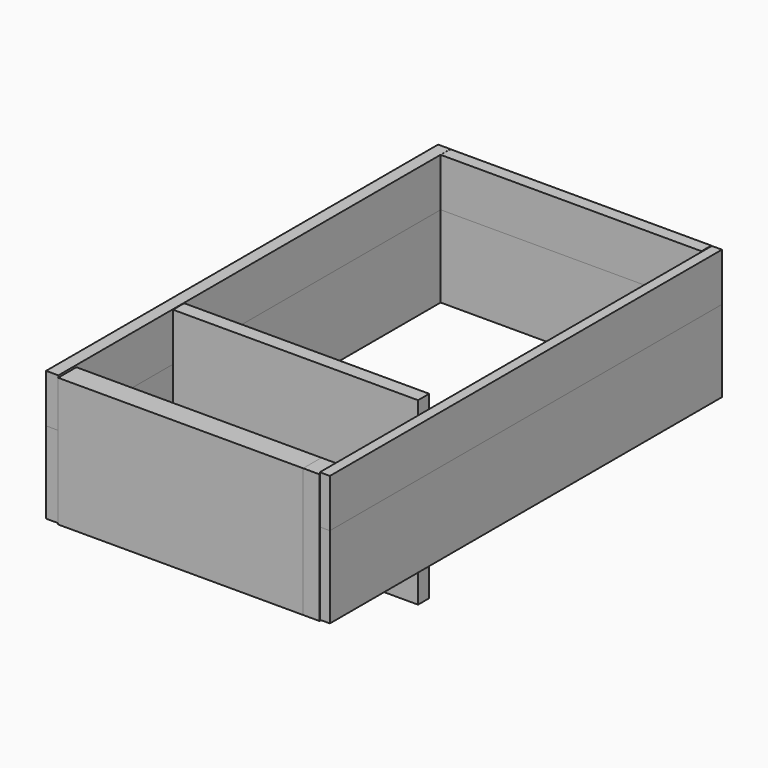
from build123d import *

# Parameters (mm, degrees)
F0_W      = 151.7477110028
F0_H      = 75.1876682043
F1_DEPTH  = 19.05
F2_W      = 19.1056653857
F2_H      = 71.5590007603
F3_DEPTH  = 762
F4_DEPTH  = 3.81
F5_DEPTH  = 254
F6_W      = 15.6524479389
F6_H      = 74.9500244856
F7_DEPTH  = 762
F8_DEPTH  = 127
F10_W     = 35.5035066605
F10_H     = 200.8482292295
F11_DEPTH = 381
F12_DEPTH = 25.4
F13_W     = 21.743118763
F13_H     = 279.9243927002
F14_DEPTH = 381
F15_DEPTH = 127


with BuildPart() as f1:
    # F0 (on Front) → F1 (new body)
    with BuildSketch(Plane.XZ):
        with Locations((-1.86265e-05, 37.5938341022)):
            Rectangle(F0_W, F0_H)
    extrude(amount=F1_DEPTH)

    # F2 (on Front) → F3 (join)
    with BuildSketch(Plane.XZ):
        with Locations((-85.3756554425, 39.5220350474)):
            Rectangle(F2_W, F2_H)
    extrude(amount=F3_DEPTH)

    # F4 (add): a face of the model
    f4_faces = [f1.faces().sort_by_distance(p)[0] for p in [
        (-85.3762919221, -381.0248166935, 3.7425346673),
    ]]
    extrude(f4_faces, amount=F4_DEPTH)

    # F5 (add): a face of the model
    f5_faces = [f1.faces().sort_by_distance(p)[0] for p in [
        (75.873836875, -9.525, 37.5938341022),
    ]]
    extrude(f5_faces, amount=F5_DEPTH)


with BuildPart() as f7:
    # F6 (on Front) → F7 (new body)
    with BuildSketch(Plane.XZ):
        with Locations((338.578119874, 37.4750122428)):
            Rectangle(F6_W, F6_H)
    extrude(amount=F7_DEPTH)


with BuildPart() as f8:
    # F8 (new): a face of the model
    f8_faces = [f1.part.faces().sort_by_distance(p)[0] for p in [
        (-85.3762919221, -381.0248166935, -0.0674653327),
    ]]
    extrude(f8_faces, amount=F8_DEPTH)


with BuildPart() as f8b:
    # F8#2 (new): a face of the model
    f8_2_faces = [f1.part.faces().sort_by_distance(p)[0] for p in [
        (126.9999813735, -9.525, 0),
    ]]
    extrude(f8_2_faces, amount=F8_DEPTH)


with BuildPart() as f8c:
    # F8#3 (new): a face of the model
    f8_3_faces = [f7.part.faces().sort_by_distance(p)[0] for p in [
        (338.578119874, -381, 0),
    ]]
    extrude(f8_3_faces, amount=F8_DEPTH)


with BuildPart() as f11:
    # F10 (on offset) → F11 (new body)
    with BuildSketch(Plane(origin=(305.3518959045, 0, 0), x_dir=(0, -1, 0), z_dir=(-1, 0, 0))):
        with Locations((744.9474930763, -28.076287359)):
            Rectangle(F10_W, F10_H)
    extrude(amount=F11_DEPTH)


with BuildPart() as f12:
    # F12 (new): a face of the model
    f12_faces = [f11.part.faces().sort_by_distance(p)[0] for p in [
        (305.3518959045, -744.9474930763, -28.076287359),
    ]]
    extrude(f12_faces, amount=F12_DEPTH)


with BuildPart() as f14:
    # F13 (on offset) → F14 (new body)
    with BuildSketch(Plane(origin=(305.3518959045, 0, 0), x_dir=(0, -1, 0), z_dir=(-1, 0, 0))):
        with Locations((528.4974873066, -65.2126073837)):
            Rectangle(F13_W, F13_H)
    extrude(amount=F14_DEPTH)

    # F15 (add): a face of the model
    f15_faces = [f14.faces().sort_by_distance(p)[0] for p in [
        (114.8518959045, -528.4974873066, -205.1748037338),
    ]]
    extrude(f15_faces, amount=-F15_DEPTH)


solid = Compound([f1.part, f7.part, f8.part, f8b.part, f8c.part, f11.part, f12.part, f14.part])
